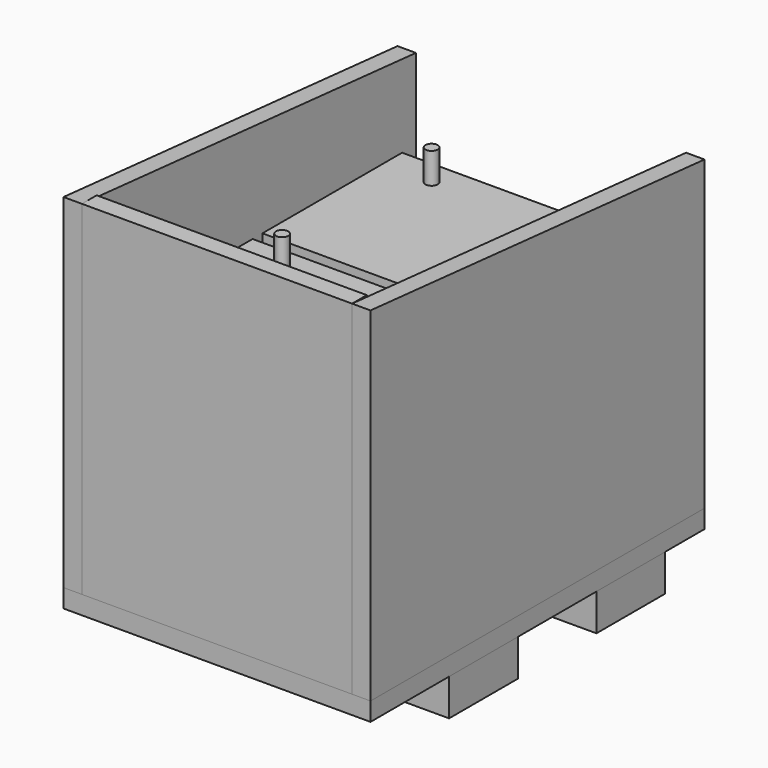
from build123d import *

# Parameters (mm, degrees)
F2_W      = 88.9
F2_H      = 38.1
F3_DEPTH  = 254
F4_W      = 317.5
F4_H      = 431.8
F5_DEPTH  = 19.05
F7_DEPTH  = 19.05
F9_DEPTH  = 19.05
F10_W     = 261.62
F10_H     = 180.594
F11_DEPTH = 241.3
F12_R     = 6.35
F13_DEPTH = 31.75
F14_W     = 279.4
F14_H     = 19.05
F15_DEPTH = 355.6


with BuildPart() as f3:
    # F2 (on face) → F3 (new body)
    with BuildSketch(Plane.YZ):
        with Locations((146.05, 19.05)):
            Rectangle(F2_W, F2_H)
    extrude(amount=-F3_DEPTH)


with BuildPart() as f3b:
    # F2 (on face) → F3, piece 2 (new body)
    with BuildSketch(Plane.YZ):
        with Locations((336.55, 19.05)):
            Rectangle(F2_W, F2_H)
    extrude(amount=-F3_DEPTH)


with BuildPart() as f5:
    # F4 (on face) → F5 (new body)
    with BuildSketch(Plane.XY.offset(38.1)):
        with Locations((-158.75, 215.9)):
            Rectangle(F4_W, F4_H)
    extrude(amount=F5_DEPTH)


with BuildPart() as f7:
    # F6 (on face) → F7 (new body)
    with BuildSketch(Plane(origin=(-317.5, 0, 0), x_dir=(0, -1, 0), z_dir=(-1, 0, 0))):
        Polygon((-431.8, 374.65), (-431.8, 57.15), (0, 57.15), (0, 412.75), align=None)
    extrude(amount=-F7_DEPTH)


with BuildPart() as f9:
    # F8 (on face) → F9 (new body)
    with BuildSketch(Plane.YZ):
        Polygon((431.8, 57.15), (431.8, 374.65), (0, 412.75), (0, 57.15), align=None)
    extrude(amount=-F9_DEPTH)


with BuildPart() as f11:
    # F10 (on face) → F11 (new body)
    with BuildSketch(Plane.XY.offset(57.15)):
        with Locations((-158.75, 312.547)):
            Rectangle(F10_W, F10_H)
    extrude(amount=F11_DEPTH)

    # F12 (on face) → F13 (join)
    with BuildSketch(Plane.XY.offset(298.45)):
        with Locations((-238.76, 377.444)):
            Circle(F12_R)
        with Locations((-78.74, 247.65)):
            Circle(F12_R)
    extrude(amount=F13_DEPTH)


with BuildPart() as f11b:
    # F10 (on face) → F11, piece 2 (new body)
    with BuildSketch(Plane.XY.offset(57.15)):
        with Locations((-158.75, 119.253)):
            Rectangle(F10_W, F10_H)
    extrude(amount=F11_DEPTH)

    # F12 (on face) → F13, piece 2 (join)
    with BuildSketch(Plane.XY.offset(298.45)):
        with Locations((-238.76, 184.15)):
            Circle(F12_R)
        with Locations((-78.74, 54.356)):
            Circle(F12_R)
    extrude(amount=F13_DEPTH)


with BuildPart() as f15:
    # F14 (on face) → F15 (new body, through all)
    with BuildSketch(Plane.XY.offset(57.15)):
        with Locations((-158.75, 9.525)):
            Rectangle(F14_W, F14_H)
    extrude(amount=F15_DEPTH)


solid = Compound([f3.part, f3b.part, f5.part, f7.part, f9.part, f11.part, f11b.part, f15.part])
